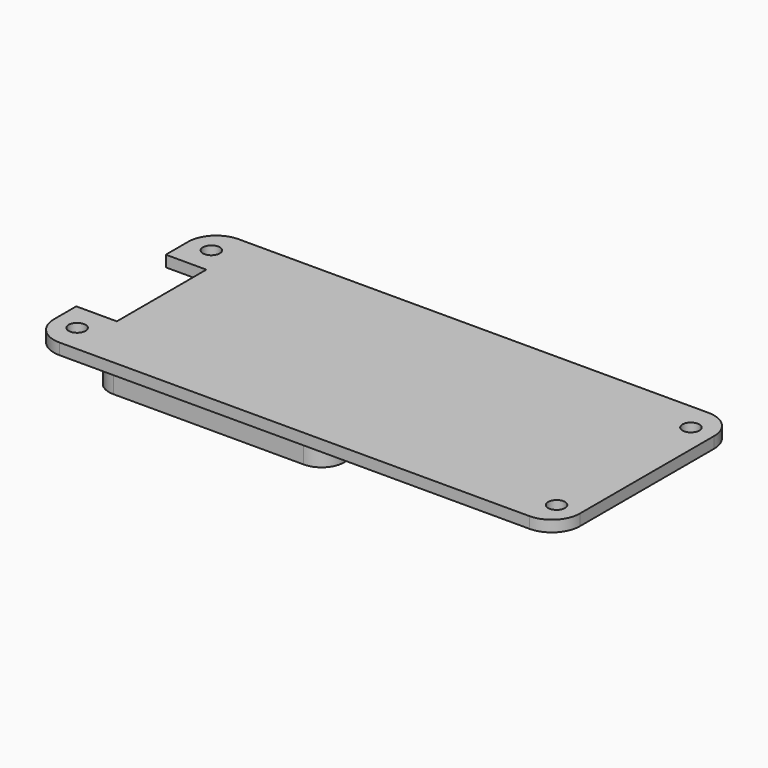
from build123d import *

# Parameters (mm, degrees)
SKETCH_R        = 1.5
PAD_DEPTH       = 2
FILLET001_R     = 5
SKETCH003_W     = 42
SKETCH003_H     = 23
POCKET001_DEPTH = 1.5
SKETCH004_W     = 42
SKETCH004_H     = 5
SKETCH004_R     = 1.5
PAD002_DEPTH    = 5
FILLET002_R     = 4
SKETCH007_W     = 1
SKETCH007_H     = 20
SKETCH007_W_2   = 2
SKETCH007_H_2   = 23
PAD004_DEPTH    = 1


with BuildPart() as part:
    # Sketch → Pad (new body)
    with BuildSketch(Plane.XY):
        Polygon((-47, 20), (47, 20), (47, -20), (-47, -20), (-47, -10), (-39.75, -10), (-39.75, 10), (-47, 10), align=None)
        with Locations((-42.85, 15)):
            Circle(SKETCH_R, mode=Mode.SUBTRACT)
        with Locations((-42.85, -15)):
            Circle(SKETCH_R, mode=Mode.SUBTRACT)
        with Locations((42.85, -15)):
            Circle(SKETCH_R, mode=Mode.SUBTRACT)
        with Locations((42.85, 15)):
            Circle(SKETCH_R, mode=Mode.SUBTRACT)
    extrude(amount=PAD_DEPTH)

    # Fillet001
    fillet001_edges = [part.edges().sort_by_distance(p)[0] for p in [
        (47, -20, 1),
        (47, 20, 1),
        (-47, -20, 1),
        (-47, 20, 1),
    ]]
    fillet(fillet001_edges, radius=FILLET001_R)

    # Sketch003 (on Face2 of Fillet001) → Pocket001 (cut)
    with BuildSketch(Plane(origin=(0, 0, 0), x_dir=(1, 0, 0), z_dir=(0, 0, -1))):
        with Locations((-17.75, 0.5)):
            Rectangle(SKETCH003_W, SKETCH003_H)
    extrude(amount=-POCKET001_DEPTH, mode=Mode.SUBTRACT)

    # Sketch004 (on Face2 of Pocket001) → Pad002 (join)
    with BuildSketch(Plane(origin=(0, 0, 0), x_dir=(1, 0, 0), z_dir=(0, 0, -1))):
        with Locations((-17.75, 14.5)):
            Rectangle(SKETCH004_W, SKETCH004_H)
        with Locations((-26.25, 14.5)):
            Circle(SKETCH004_R, mode=Mode.SUBTRACT)
        with Locations((-9.25, 14.5)):
            Circle(SKETCH004_R, mode=Mode.SUBTRACT)
        with Locations((-17.75, -13.5)):
            Rectangle(SKETCH004_W, SKETCH004_H)
        with Locations((-26.25, -13.5)):
            Circle(SKETCH004_R, mode=Mode.SUBTRACT)
        with Locations((-9.25, -13.5)):
            Circle(SKETCH004_R, mode=Mode.SUBTRACT)
    extrude(amount=PAD002_DEPTH)

    # Fillet002
    fillet002_edges = [part.edges().sort_by_distance(p)[0] for p in [
        (3.25, 16, -2.5),
        (3.25, -17, -2.5),
        (-38.75, 16, -2.5),
        (-38.75, -17, -2.5),
    ]]
    fillet(fillet002_edges, radius=FILLET002_R)

    # Sketch007 (on Face1 of Fillet002) → Pad004 (join)
    with BuildSketch(Plane(origin=(0, 0, 0), x_dir=(1, 0, 0), z_dir=(0, 0, -1))):
        with Locations((-39.25, 0)):
            Rectangle(SKETCH007_W, SKETCH007_H)
        with Locations((4.25, 0.5)):
            Rectangle(SKETCH007_W_2, SKETCH007_H_2)
    extrude(amount=PAD004_DEPTH)


with BuildPart() as part_1:
    # Body placement: moved
    add(part.part.moved(Location((77, -1, 17))))


solid = part_1.part
